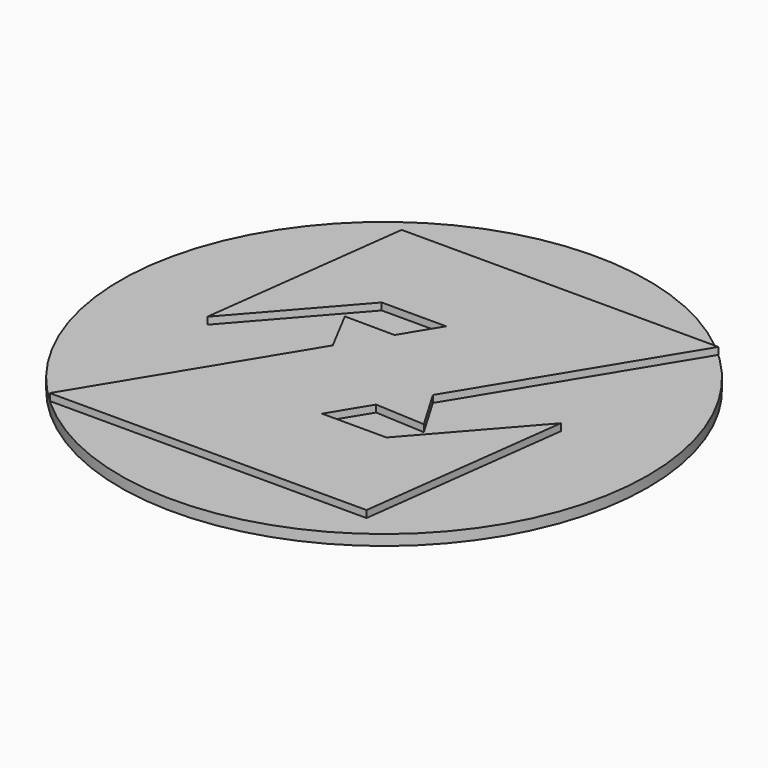
from build123d import *

# Parameters (mm, degrees)
F0_R     = 19.05
F1_DEPTH = 0.762
F3_DEPTH = 0.508


with BuildPart() as f1:
    # F0 (on Top) → F1 (new body)
    with BuildSketch(Plane.XY):
        Circle(F0_R)
    extrude(amount=F1_DEPTH)


with BuildPart() as f3:
    # F2 (on face) → F3 (new body)
    with BuildSketch(Plane.XY.offset(0.762)):
        Polygon((12.95151, 13.97), (-9.90849, 13.97), (-11.839128, -1.147217), (-5.253481, 6.35), (-0.598471, 6.35), (-2.208709, 3.701257), (-5.811639, 3.724473), (-4.132566, 0.536628), (-12.95151, -13.97), (9.90849, -13.97), (11.839128, 1.147217), (5.253481, -6.35), (0.598471, -6.35), (2.284825, -3.576051), (5.882608, -3.769955), (4.054375, -0.665247), align=None)
    extrude(amount=F3_DEPTH)


solid = Compound([f1.part, f3.part])
